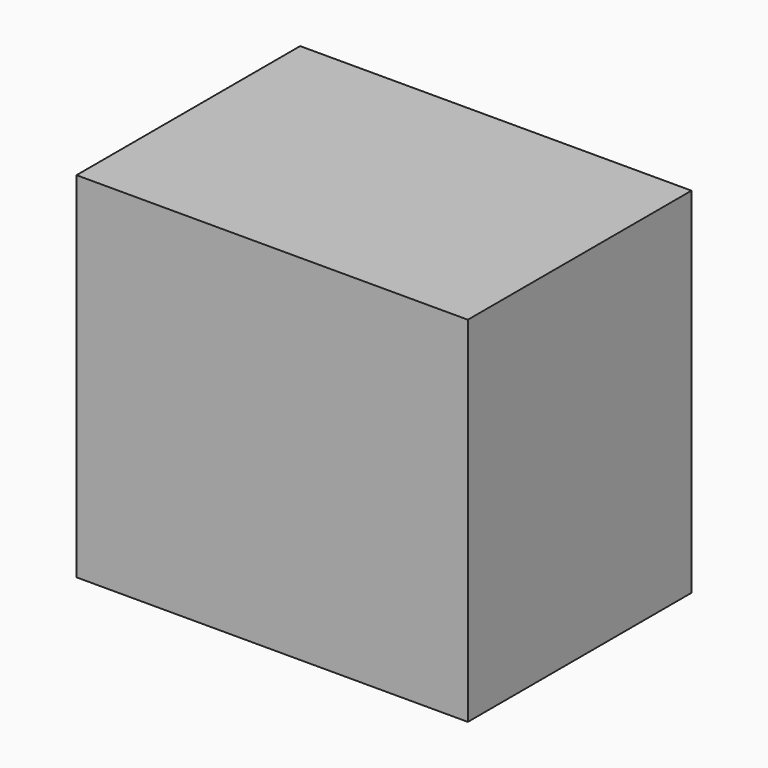
from build123d import *

# Parameters (mm, degrees)
F0_W     = 266.70002
F0_H     = 190.500024
F0_W_2   = 253.999999
F0_H_2   = 177.800003
F1_DEPTH = 234.95
F2_W     = 266.70002
F2_H     = 190.500024
F3_DEPTH = 6.35


with BuildPart() as f1:
    # F0 (on Top) → F1 (new body)
    with BuildSketch(Plane.XY):
        with Locations((5.475111, 3.352182)):
            Rectangle(F0_W, F0_H)
        with Locations((5.475111, 3.352183)):
            Rectangle(F0_W_2, F0_H_2, mode=Mode.SUBTRACT)
    extrude(amount=F1_DEPTH)

    # F2 (on face) → F3 (join)
    with BuildSketch(Plane.XY.offset(234.95)):
        with Locations((5.475111, 3.352182)):
            Rectangle(F2_W, F2_H)
    extrude(amount=F3_DEPTH)


solid = f1.part
